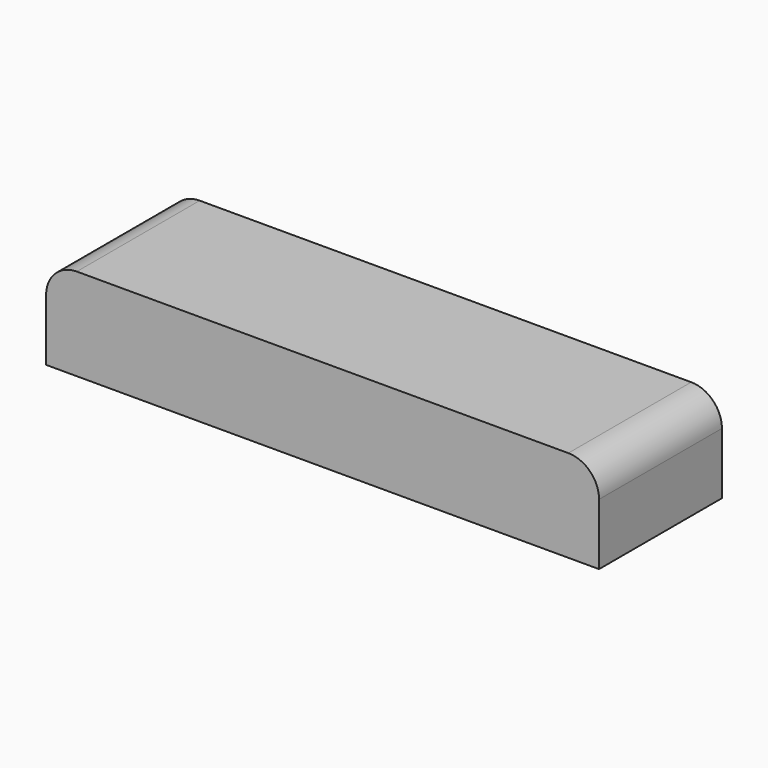
from build123d import *

# Parameters (mm, degrees)
F1_DEPTH = 254
F2_R     = 50.8


with BuildPart() as f1:
    # F0 (on Front) → F1 (new body)
    with BuildSketch(Plane.XZ):
        Polygon((-457.2, 0), (0, 0), (457.2, 0), (457.2, 152.4), (-457.2, 152.4), align=None)
    extrude(amount=-F1_DEPTH)

    # F2
    f2_edges = [f1.edges().sort_by_distance(p)[0] for p in [
        (-457.2, 127, 152.4),
        (457.2, 127, 152.4),
    ]]
    fillet(f2_edges, radius=F2_R)


solid = f1.part
